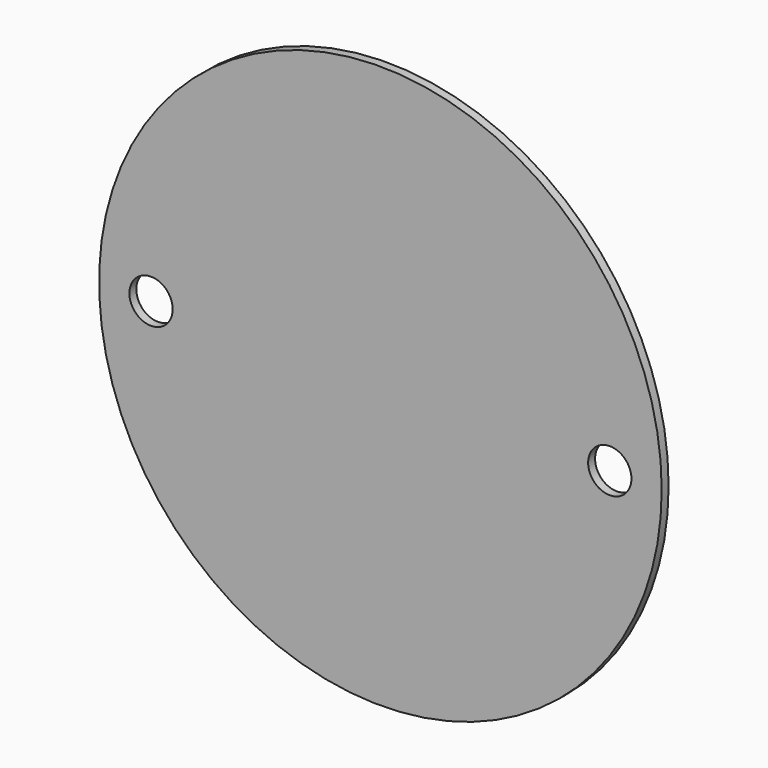
from build123d import *

# Parameters (mm, degrees)
F0_R     = 32.5
F0_R_2   = 2.5
F1_DEPTH = 1


with BuildPart() as f1:
    # F0 (on Front) → F1 (new body)
    with BuildSketch(Plane.XZ):
        Circle(F0_R)
        with Locations((-26.5, 0)):
            Circle(F0_R_2, mode=Mode.SUBTRACT)
        with Locations((26.5, 0)):
            Circle(F0_R_2, mode=Mode.SUBTRACT)
    extrude(amount=F1_DEPTH)


solid = f1.part
